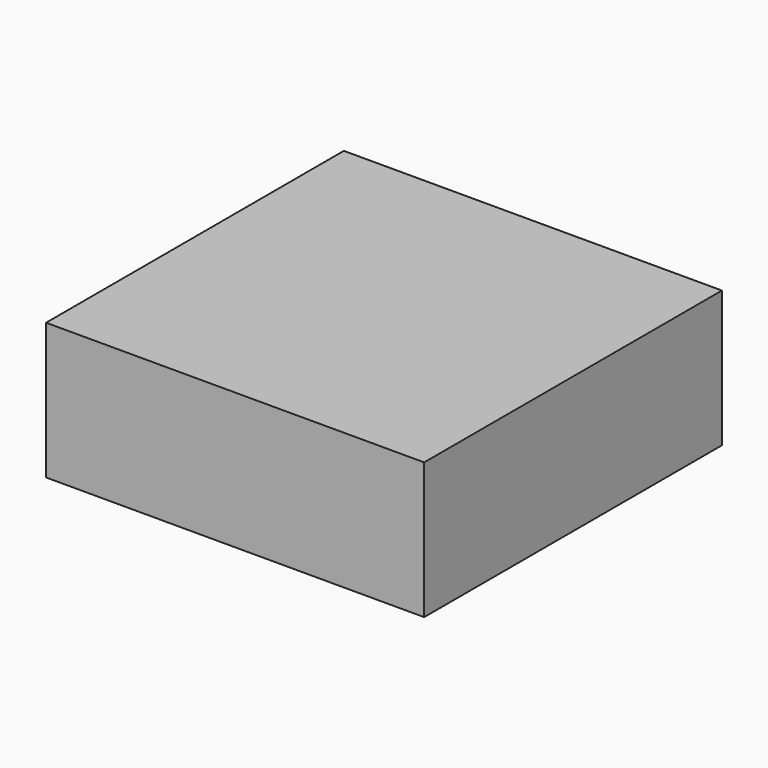
from build123d import *

# Parameters (mm, degrees)
F0_W      = 76.02495
F0_H      = 74.841164
F1_DEPTH  = 25.4
F1_FACE_W = 76.02495
F1_FACE_H = 74.841164
F2_DEPTH  = 2


with BuildPart() as f1:
    # F0 (on Top) → F1 (new body)
    with BuildSketch(Plane.XY):
        with Locations((38.012475, 37.420582)):
            Rectangle(F0_W, F0_H)
        with Locations((38.012475, 37.420582)):
            Rectangle(F0_W, F0_H)
    extrude(amount=F1_DEPTH)

    # F1_face (on face) → F2 (join)
    with BuildSketch(Plane(origin=(38.012475, 37.420582, 25.4), x_dir=(1, 0, 0), z_dir=(0, 0, 1))):
        Rectangle(F1_FACE_W, F1_FACE_H)
    extrude(amount=F2_DEPTH)


solid = f1.part
